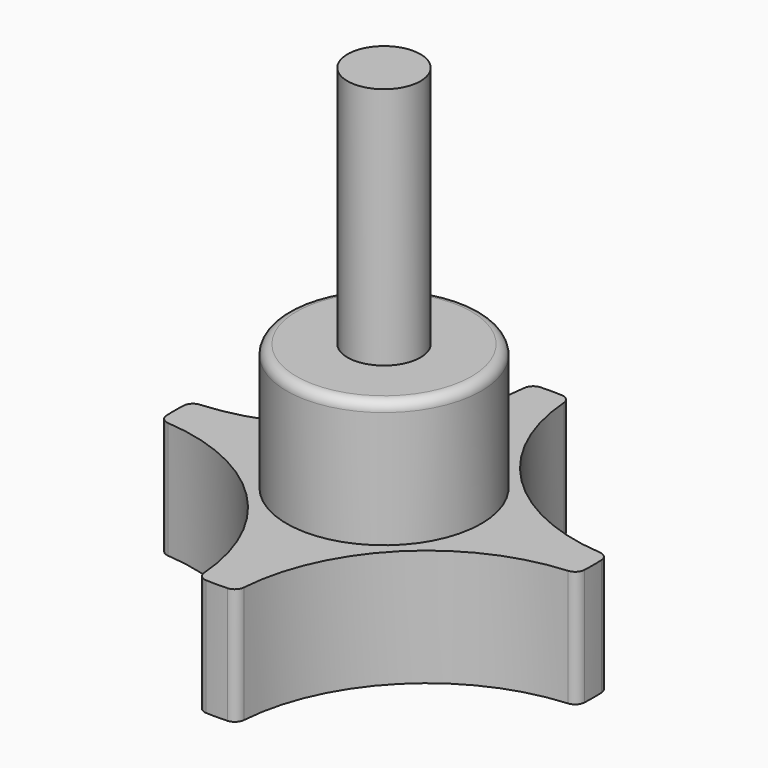
from build123d import *

# Parameters (mm, degrees)
F0_R     = 10
F1_DEPTH = 12
F2_R     = 1
F0_R_2   = 3.75
F3_DEPTH = 25
F4_DEPTH = 50
F5_R     = 1
F6_R     = 7.5
F7_DEPTH = 1


with BuildPart() as f1:
    # F0 (on Top) → F1 (new body)
    with BuildSketch(Plane.XY):
        with BuildLine():
            ThreePointArc((-2, 21.406775), (-7.849316, 7.849316), (-21.406775, 2))
            ThreePointArc((-21.406775, 2), (-21.5, 0), (-21.406775, -2))
            ThreePointArc((-21.406775, -2), (-7.849316, -7.849316), (-2, -21.406775))
            ThreePointArc((-2, -21.406775), (0, -21.5), (2, -21.406775))
            ThreePointArc((2, -21.406775), (7.849316, -7.849316), (21.406775, -2))
            ThreePointArc((21.406775, -2), (21.5, 0), (21.406775, 2))
            ThreePointArc((21.406775, 2), (7.849316, 7.849316), (2, 21.406775))
            ThreePointArc((2, 21.406775), (0, 21.5), (-2, 21.406775))
        make_face()
        Circle(F0_R, mode=Mode.SUBTRACT)
    extrude(amount=F1_DEPTH)

    # F2
    f2_edges = [f1.edges().sort_by_distance(p)[0] for p in [
        (-2, 21.406775, 6),
        (2, 21.406775, 6),
        (21.406775, 2, 6),
        (21.406775, -2, 6),
        (2, -21.406775, 6),
        (-2, -21.406775, 6),
        (-21.406775, -2, 6),
        (-21.406775, 2, 6),
    ]]
    fillet(f2_edges, radius=F2_R)

    # F0 (on Top) → F3 (join)
    with BuildSketch(Plane.XY):
        Circle(F0_R)
        Circle(F0_R_2, mode=Mode.SUBTRACT)
    extrude(amount=F3_DEPTH)

    # F0 (on Top) → F4 (join)
    with BuildSketch(Plane.XY):
        Circle(F0_R_2)
    extrude(amount=F4_DEPTH)

    # F5
    f5_edges = [f1.edges().sort_by_distance(p)[0] for p in [
        (-10, 0, 25),
    ]]
    fillet(f5_edges, radius=F5_R)

    # F6 (on face) → F7 (cut)
    with BuildSketch(Plane(origin=(0, 0, 0), x_dir=(1, 0, 0), z_dir=(0, 0, -1))):
        Circle(F6_R)
    extrude(amount=-F7_DEPTH, mode=Mode.SUBTRACT)


solid = f1.part
